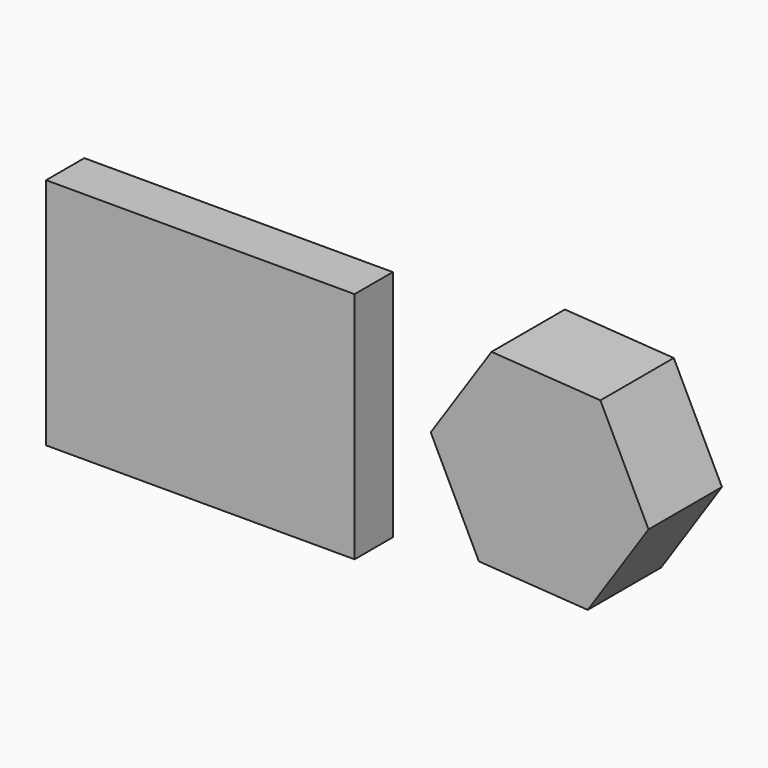
from build123d import *

# Parameters (mm, degrees)
F0_W     = 163.991064
F0_H     = 124.101352
F1_DEPTH = 25.4
F3_DEPTH = 48.768


with BuildPart() as f1:
    # F0 (on Front) → F1 (new body)
    with BuildSketch(Plane.XZ):
        with Locations((6.251894, -8.891301)):
            Rectangle(F0_W, F0_H)
    extrude(amount=F1_DEPTH)


with BuildPart() as f3:
    # F2 (on Front) → F3 (new body)
    with BuildSketch(Plane.XZ):
        Polygon((230.861698, -38.717144), (263.167243, 9.463392), (237.594447, 61.531084), (179.716106, 65.418238), (147.410561, 17.237702), (172.983356, -34.829989), align=None)
    extrude(amount=F3_DEPTH)


solid = Compound([f1.part, f3.part])
